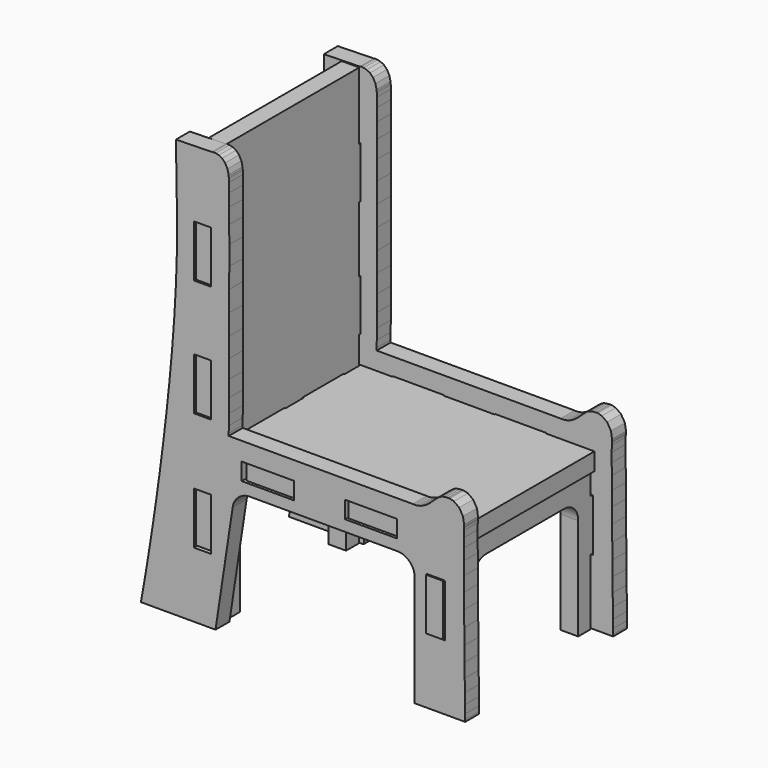
from build123d import *

# Parameters (mm, degrees)
F0_W      = 4.938776
F0_H      = 14.93393
F0_H_2    = 14.933676
F0_W_2    = 14.933676
F0_H_3    = 4.93903
F0_W_3    = 4.93903
F0_H_4    = 14.9352
F1_DEPTH  = 5
F3_W      = 4.938776
F3_H      = 14.93393
F3_H_2    = 14.933676
F3_W_2    = 14.933676
F3_H_3    = 4.93903
F3_W_3    = 4.93903
F3_H_4    = 14.9352
F4_DEPTH  = 5
F6_W      = 14.933676
F6_H      = 4.938776
F6_W_2    = 14.9352
F7_DEPTH  = 5
F10_DEPTH = 5
F13_DEPTH = 5
F15_DEPTH = 75
F17_DEPTH = 75


with BuildPart() as f1:
    # F0 (on Front) → F1 (new body)
    with BuildSketch(Plane.XZ):
        Polygon((-46.454949, -60.128023), (46.454949, -60.128023), (46.448091, -59.600211), (46.430311, -58.107707), (46.403895, -55.784115), (46.371129, -52.763801), (46.330743, -49.180877), (46.288071, -45.170471), (46.244129, -40.866949), (46.199933, -36.404931), (46.158785, -31.916751), (46.121701, -27.538807), (46.089951, -23.404449), (46.066329, -19.648043), (46.052613, -16.403955), (46.051089, -13.806551), (46.063789, -11.991721), (46.070393, -11.315065), (46.091221, -11.091799), (46.149133, -10.445623), (45.820965, -8.463915), (44.732321, -6.615811), (43.220767, -5.535549), (42.061765, -5.197983), (41.681527, -5.211699), (41.466389, -5.218557), (40.825801, -5.265293), (40.142033, -5.374259), (39.570279, -5.556123), (39.056183, -5.826379), (38.539293, -6.202299), (37.964999, -6.701155), (37.273357, -7.342251), (36.625657, -7.941437), (36.408995, -8.140065), (36.183189, -8.344027), (35.450145, -8.896477), (34.533713, -9.427083), (33.684845, -9.771761), (32.929449, -9.968611), (32.296989, -10.053955), (31.810579, -10.067671), (31.500445, -10.047351), (31.391733, -10.033381), (-21.289137, -10.033381), (-21.286851, -9.346057), (-21.275421, -7.397115), (-21.260435, -4.362831), (-21.241385, -0.413385), (-21.220557, 4.276217), (-21.198459, 9.534779), (-21.177885, 15.188819), (-21.159851, 21.065871), (-21.146135, 26.992961), (-21.138007, 32.795845), (-21.136483, 38.304089), (-21.144611, 43.342179), (-21.161121, 47.739427), (-21.190077, 51.320827), (-21.232749, 53.915945), (-21.260435, 54.991889), (-21.289137, 55.349013), (-21.327999, 55.818913), (-21.662771, 57.206515), (-22.346285, 58.515885), (-23.214457, 59.370341), (-24.144605, 59.862085), (-25.011507, 60.083827), (-25.692227, 60.128023), (-26.060273, 60.086621), (-26.010489, 60.052077), (-25.993979, 60.052077), (-36.427029, 59.816619), (-36.417377, 59.209051), (-36.388421, 57.553733), (-36.345749, 55.105173), (-36.295965, 52.116101), (-36.241101, 48.840517), (-36.188777, 45.531913), (-36.141787, 42.442257), (-36.114355, 40.481377), (-36.105973, 39.826819), (-36.082605, 37.832665), (-36.137723, 31.843599), (-36.403661, 23.579455), (-36.870767, 15.143099), (-37.507545, 6.646291), (-38.278943, -1.803781), (-39.155751, -10.094087), (-40.102155, -18.116931), (-41.088945, -25.762331), (-42.079799, -32.918527), (-43.045761, -39.478077), (-43.952795, -45.329221), (-44.766865, -50.362993), (-45.455967, -54.471189), (-45.990637, -57.540017), (-46.334045, -59.462289), align=None)
        with Locations((-28.814649, -33.963864)):
            Rectangle(F0_W, F0_H, mode=Mode.SUBTRACT)
        with Locations((-28.814649, -0.097155)):
            Rectangle(F0_W, F0_H_2, mode=Mode.SUBTRACT)
        with Locations((-10.118217, -17.735296)):
            Rectangle(F0_W_2, F0_H_3, mode=Mode.SUBTRACT)
        with Locations((38.21303, -33.963864)):
            Rectangle(F0_W_3, F0_H, mode=Mode.SUBTRACT)
        with Locations((19.515201, -17.735296)):
            Rectangle(F0_W_2, F0_H_3, mode=Mode.SUBTRACT)
        with Locations((-28.814649, 33.417383)):
            Rectangle(F0_W, F0_H_4, mode=Mode.SUBTRACT)
    extrude(amount=F1_DEPTH)


with BuildPart() as f4:
    # F3 (on offset) → F4 (new body)
    with BuildSketch(Plane.XZ.offset(-48)):
        Polygon((-46.454949, -60.128023), (46.454949, -60.128023), (46.448091, -59.600211), (46.430311, -58.107707), (46.403895, -55.784115), (46.371129, -52.763801), (46.330743, -49.180877), (46.288071, -45.170471), (46.244129, -40.866949), (46.199933, -36.404931), (46.158785, -31.916751), (46.121701, -27.538807), (46.089951, -23.404449), (46.066329, -19.648043), (46.052613, -16.403955), (46.051089, -13.806551), (46.063789, -11.991721), (46.070393, -11.315065), (46.091221, -11.091799), (46.149133, -10.445623), (45.820965, -8.463915), (44.732321, -6.615811), (43.220767, -5.535549), (42.061765, -5.197983), (41.681527, -5.211699), (41.466389, -5.218557), (40.825801, -5.265293), (40.142033, -5.374259), (39.570279, -5.556123), (39.056183, -5.826379), (38.539293, -6.202299), (37.964999, -6.701155), (37.273357, -7.342251), (36.625657, -7.941437), (36.408995, -8.140065), (36.183189, -8.344027), (35.450145, -8.896477), (34.533713, -9.427083), (33.684845, -9.771761), (32.929449, -9.968611), (32.296989, -10.053955), (31.810579, -10.067671), (31.500445, -10.047351), (31.391733, -10.033381), (-21.289137, -10.033381), (-21.286851, -9.346057), (-21.275421, -7.397115), (-21.260435, -4.362831), (-21.241385, -0.413385), (-21.220557, 4.276217), (-21.198459, 9.534779), (-21.177885, 15.188819), (-21.159851, 21.065871), (-21.146135, 26.992961), (-21.138007, 32.795845), (-21.136483, 38.304089), (-21.144611, 43.342179), (-21.161121, 47.739427), (-21.190077, 51.320827), (-21.232749, 53.915945), (-21.260435, 54.991889), (-21.289137, 55.349013), (-21.327999, 55.818913), (-21.662771, 57.206515), (-22.346285, 58.515885), (-23.214457, 59.370341), (-24.144605, 59.862085), (-25.011507, 60.083827), (-25.692227, 60.128023), (-26.060273, 60.086621), (-26.010489, 60.052077), (-25.993979, 60.052077), (-36.427029, 59.816619), (-36.417377, 59.209051), (-36.388421, 57.553733), (-36.345749, 55.105173), (-36.295965, 52.116101), (-36.241101, 48.840517), (-36.188777, 45.531913), (-36.141787, 42.442257), (-36.114355, 40.481377), (-36.105973, 39.826819), (-36.082605, 37.832665), (-36.137723, 31.843599), (-36.403661, 23.579455), (-36.870767, 15.143099), (-37.507545, 6.646291), (-38.278943, -1.803781), (-39.155751, -10.094087), (-40.102155, -18.116931), (-41.088945, -25.762331), (-42.079799, -32.918527), (-43.045761, -39.478077), (-43.952795, -45.329221), (-44.766865, -50.362993), (-45.455967, -54.471189), (-45.990637, -57.540017), (-46.334045, -59.462289), align=None)
        with Locations((-28.814649, -33.963864)):
            Rectangle(F3_W, F3_H, mode=Mode.SUBTRACT)
        with Locations((-28.814649, -0.097155)):
            Rectangle(F3_W, F3_H_2, mode=Mode.SUBTRACT)
        with Locations((-10.118217, -17.735296)):
            Rectangle(F3_W_2, F3_H_3, mode=Mode.SUBTRACT)
        with Locations((38.21303, -33.963864)):
            Rectangle(F3_W_3, F3_H, mode=Mode.SUBTRACT)
        with Locations((19.515201, -17.735296)):
            Rectangle(F3_W_2, F3_H_3, mode=Mode.SUBTRACT)
        with Locations((-28.814649, 33.417383)):
            Rectangle(F3_W, F3_H_4, mode=Mode.SUBTRACT)
    extrude(amount=-F4_DEPTH)


with BuildPart() as f7:
    # F6 (on offset) → F7 (new body)
    with BuildSketch(Plane.YZ.offset(-26)):
        Polygon((47.625, -59.981972), (47.625, -40.931972), (52.56403, -40.931972), (52.56403, -26.291666), (47.625, -26.291666), (47.625, -7.417942), (52.56403, -7.417942), (52.56403, 7.222364), (47.625, 7.222364), (47.625, 26.095834), (52.56403, 26.095834), (52.56403, 40.73614), (47.625, 40.73614), (47.625, 59.981974), (0, 59.981974), (0, 40.73614), (-4.58597, 40.73614), (-4.58597, 26.095834), (0, 26.095834), (0, 7.222364), (-4.58597, 7.222364), (-4.58597, -7.417942), (0, -7.417942), (0, -26.291666), (-4.58597, -26.291666), (-4.58597, -40.931972), (0, -40.931972), (0, -59.981972), align=None)
        with Locations((13.228574, -17.884266)):
            Rectangle(F6_W, F6_H, mode=Mode.SUBTRACT)
        with Locations((34.395918, -17.884266)):
            Rectangle(F6_W_2, F6_H, mode=Mode.SUBTRACT)
    extrude(amount=-F7_DEPTH)


with BuildPart() as f10:
    # F9 (on offset) → F10 (new body)
    with BuildSketch(Plane.XY.offset(-20)):
        Polygon((41.305742, 0), (41.305742, 47.742094), (27.311866, 47.742094), (27.311866, 52.68087), (12.67156, 52.68087), (12.67156, 47.742094), (-1.968746, 47.742094), (-1.968746, 52.68087), (-16.609052, 52.68087), (-16.609052, 47.742094), (-25.722064, 47.742094), (-25.722064, 42.009314), (-30.808414, 42.009314), (-30.808414, 27.369008), (-25.722064, 27.369008), (-25.722064, 20.842732), (-30.808414, 20.842732), (-30.808414, 6.202426), (-25.722064, 6.202426), (-25.722064, 0), (-16.609052, 0), (-16.609052, -4.46913), (-1.968746, -4.46913), (-1.968746, 0), (12.67156, 0), (12.67156, -4.46913), (27.311866, -4.46913), (27.311866, 0), align=None)
    extrude(amount=F10_DEPTH)


with BuildPart() as f13:
    # F12 (on offset) → F13 (new body)
    with BuildSketch(Plane.YZ.offset(35.5)):
        Polygon((52.446936, -41.176278), (52.446936, -26.359442), (47.272448, -26.359442), (47.272448, -20.009442), (0, -20.009442), (0, -26.359442), (-5.408676, -26.359442), (-5.408676, -41.176278), (0, -41.176278), (0, -59.990566), (47.272448, -59.990566), (47.272448, -41.176278), align=None)
    extrude(amount=F13_DEPTH)


with BuildPart() as f15_tool:
    # F14 (on Front) → F15 (new body, symmetric)
    with BuildSketch(Plane.XZ):
        with BuildLine():
            Line((-20.157663, -27.629126), (-25.061321, -60.028303))
            Line((-25.061321, -60.028303), (-25.061321, -66.962264))
            Line((-25.061321, -66.962264), (31.995285, -66.962264))
            Line((31.995285, -66.962264), (31.995285, -60.028303))
            Line((31.995285, -60.028303), (31.995285, -28.377361))
            ThreePointArc((31.995285, -28.377361), (30.530819, -24.841827), (26.995285, -23.377361))
            Line((26.995285, -23.377361), (-15.213965, -23.377361))
            ThreePointArc((-15.213965, -23.377361), (-18.474243, -24.586505), (-20.157663, -27.629126))
        make_face()
    extrude(amount=F15_DEPTH, both=True)


with BuildPart() as f1_1:
    add(f1.part)

    # F15: cut by f15_tool
    add(f15_tool.part, mode=Mode.SUBTRACT)


with BuildPart() as f4_1:
    add(f4.part)

    # F15: cut by f15_tool
    add(f15_tool.part, mode=Mode.SUBTRACT)


with BuildPart() as f17_tool:
    # F16 (on Right) → F17 (new body, symmetric)
    with BuildSketch(Plane.YZ):
        with BuildLine():
            Line((5, -30.75472), (5, -62.079061))
            Line((5, -62.079061), (42.918108, -62.079061))
            Line((42.918108, -62.079061), (42.918108, -30.75472))
            ThreePointArc((42.918108, -30.75472), (41.453642, -27.219186), (37.918108, -25.75472))
            Line((37.918108, -25.75472), (10, -25.75472))
            ThreePointArc((10, -25.75472), (6.464466, -27.219186), (5, -30.75472))
        make_face()
    extrude(amount=F17_DEPTH, both=True)


with BuildPart() as f7_1:
    add(f7.part)

    # F17: cut by f17_tool
    add(f17_tool.part, mode=Mode.SUBTRACT)


with BuildPart() as f13_1:
    add(f13.part)

    # F17: cut by f17_tool
    add(f17_tool.part, mode=Mode.SUBTRACT)


solid = Compound([f10.part, f1_1.part, f4_1.part, f7_1.part, f13_1.part])
